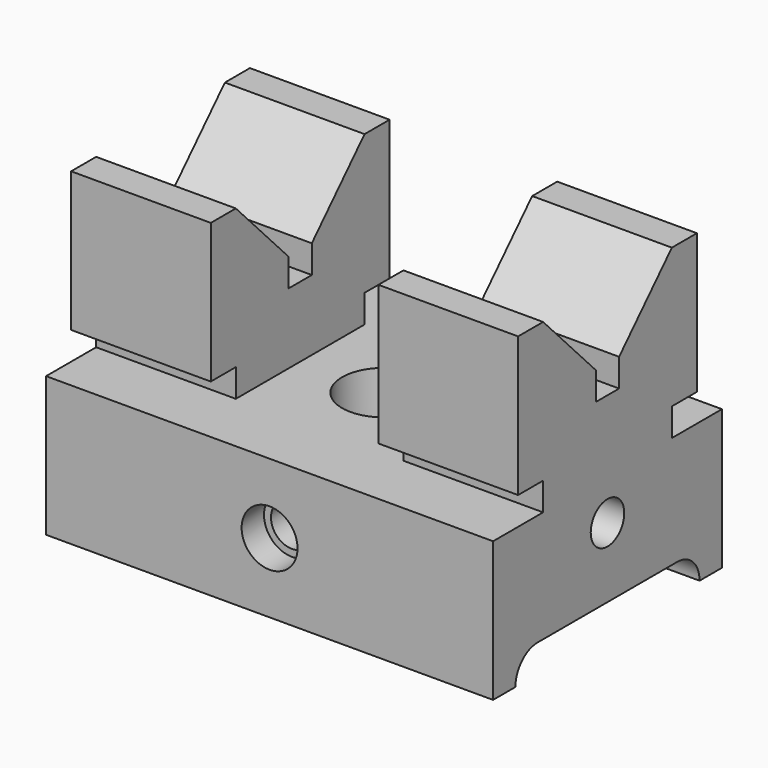
from build123d import *

# Parameters (mm, degrees)
F1_DEPTH       = 65.024
F3_D           = 9.525
F3_CBORE_D     = 12.7
F3_CBORE_DEPTH = 6.35
F4_W           = 31.75
F4_H           = 7.112
F5_DEPTH       = 38.1
F6_W           = 7.112
F6_H           = 38.1
F7_DEPTH       = 101.601
F9_DEPTH       = 101.601
F11_D          = 9.525
F11_DEPTH      = 15.875
F11_TIP        = 2.8615986981
F12_W          = 6.604
F12_H          = 6.35
F13_DEPTH      = 101.601
F15_DEPTH      = 101.601
F16_W          = 7.112
F16_H          = 6.35
F17_DEPTH      = 101.601
F18_R          = 9.525
F19_DEPTH      = 31.751


with BuildPart() as f1:
    # F0 (on Front) → F1 (new body)
    with BuildSketch(Plane.XZ):
        Polygon((-50.8, 69.85), (-50.8, 0), (50.8, 0), (50.8, 69.85), (19.05, 69.85), (19.05, 31.75), (-19.05, 31.75), (-19.05, 69.85), align=None)
    extrude(amount=F1_DEPTH)

    # F3 (through all)
    with Locations(Plane.XZ.offset(65.024)):
        with Locations((0, 15.875)):
            CounterBoreHole(F3_D / 2, F3_CBORE_D / 2, F3_CBORE_DEPTH)

    # F4 (on face) → F5 (cut)
    with BuildSketch(Plane.XY.offset(69.85)):
        with Locations((-34.925, -61.468)):
            Rectangle(F4_W, F4_H)
    extrude(amount=-F5_DEPTH, mode=Mode.SUBTRACT)

    # F6 (on face) → F7 (cut, through all)
    with BuildSketch(Plane.YZ.offset(50.8)):
        with Locations((-61.468, 50.8)):
            Rectangle(F6_W, F6_H)
        with Locations((-3.556, 50.8)):
            Rectangle(F6_W, F6_H)
    extrude(amount=-F7_DEPTH, mode=Mode.SUBTRACT)

    # F8 (on face) → F9 (cut, through all)
    with BuildSketch(Plane.YZ.offset(50.8)):
        with BuildLine():
            Line((-12.7, 6.35), (-52.324, 6.35))
            ThreePointArc((-52.324, 6.35), (-56.8141280605, 4.4901280605), (-58.674, 0))
            Line((-58.674, 0), (-6.35, 0))
            ThreePointArc((-6.35, 0), (-8.2098719395, 4.4901280605), (-12.7, 6.35))
        make_face()
    extrude(amount=-F9_DEPTH, mode=Mode.SUBTRACT)

    # F11
    with Locations(Plane.YZ.offset(50.8)):
        with Locations((-32.512, 22.225)):
            Hole(F11_D / 2, depth=F11_DEPTH)
            with Locations((0, 0, -(F11_DEPTH + F11_TIP / 2))):  # 118° drill point
                Cone(0, F11_D / 2, F11_TIP, mode=Mode.SUBTRACT)

    # F12 (on face) → F13 (cut, through all)
    with BuildSketch(Plane.YZ.offset(50.8)):
        with Locations((-32.512, 50.927)):
            Rectangle(F12_W, F12_H)
    extrude(amount=-F13_DEPTH, mode=Mode.SUBTRACT)

    # F14 (on face) → F15 (cut, through all)
    with BuildSketch(Plane.YZ.offset(50.8)):
        Polygon((-50.8, 69.85), (-35.814, 54.102), (-29.21, 54.102), (-14.224, 69.85), align=None)
    extrude(amount=-F15_DEPTH, mode=Mode.SUBTRACT)

    # F16 (on face) → F17 (cut, through all)
    with BuildSketch(Plane.YZ.offset(50.8)):
        with Locations((-10.668, 34.925)):
            Rectangle(F16_W, F16_H)
        with Locations((-54.356, 34.925)):
            Rectangle(F16_W, F16_H)
    extrude(amount=-F17_DEPTH, mode=Mode.SUBTRACT)

    # F18 (on face) → F19 (cut, through all)
    with BuildSketch(Plane.XY.offset(31.75)):
        with Locations((0, -32.512)):
            Circle(F18_R)
    extrude(amount=-F19_DEPTH, mode=Mode.SUBTRACT)


solid = f1.part
